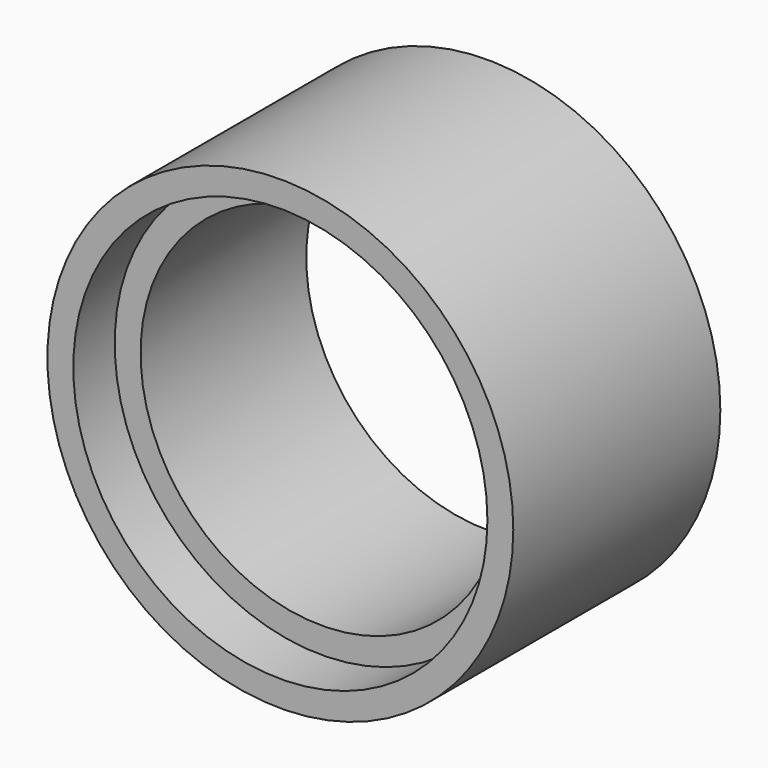
from build123d import *

# Parameters (mm, degrees)
F0_R     = 9
F0_R_2   = 7
F1_DEPTH = 10
F3_R     = 8
F4_DEPTH = 2


with BuildPart() as f1:
    # F0 (on Front) → F1 (new body)
    with BuildSketch(Plane.XZ):
        Circle(F0_R)
        Circle(F0_R_2, mode=Mode.SUBTRACT)
    extrude(amount=F1_DEPTH)

    # F3 (on offset) → F4 (cut)
    with BuildSketch(Plane.XZ.offset(10)):
        Circle(F3_R)
    extrude(amount=-F4_DEPTH, mode=Mode.SUBTRACT)


solid = f1.part
